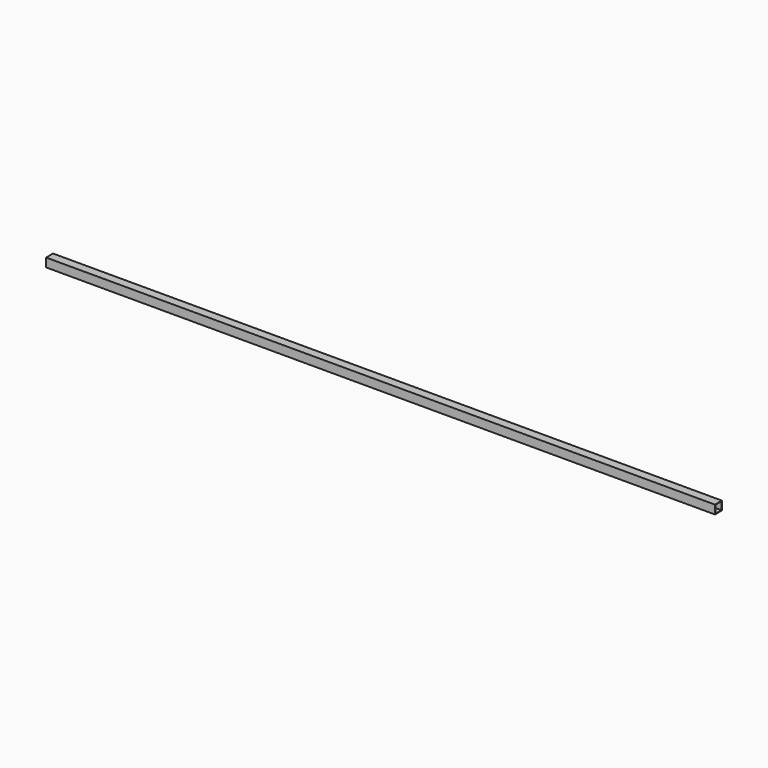
from build123d import *

# Parameters (mm, degrees)
F0_W     = 15.875
F0_H     = 15.875
F0_W_2   = 14.2748
F0_H_2   = 14.2748
F1_DEPTH = 609.6
F3_DEPTH = 5.08


with BuildPart() as f1:
    # F0 (on Right) → F1 (new body, symmetric)
    with BuildSketch(Plane.YZ):
        Rectangle(F0_W, F0_H)
        Rectangle(F0_W_2, F0_H_2, mode=Mode.SUBTRACT)
    extrude(amount=F1_DEPTH, both=True)

    # F2 (on face) → F3 (cut)
    with BuildSketch(Plane(origin=(0, 0, -7.9375), x_dir=(1, 0, 0), z_dir=(0, 0, -1))):
        with BuildLine():
            ThreePointArc((-53.975, -0.635), (-53.2310512242, -2.4310512242), (-51.435, -3.175))
            Line((-51.435, -3.175), (-12.065, -3.175))
            ThreePointArc((-12.065, -3.175), (-10.2689487758, -2.4310512242), (-9.525, -0.635))
            Line((-9.525, -0.635), (-9.525, 0.635))
            ThreePointArc((-9.525, 0.635), (-10.2689487758, 2.4310512242), (-12.065, 3.175))
            Line((-12.065, 3.175), (-51.435, 3.175))
            ThreePointArc((-51.435, 3.175), (-53.2310512242, 2.4310512242), (-53.975, 0.635))
            Line((-53.975, 0.635), (-53.975, -0.635))
        make_face()
        with BuildLine():
            ThreePointArc((53.975, 0.635), (53.2310512242, 2.4310512242), (51.435, 3.175))
            Line((51.435, 3.175), (12.065, 3.175))
            ThreePointArc((12.065, 3.175), (10.2689487758, 2.4310512242), (9.525, 0.635))
            Line((9.525, 0.635), (9.525, -0.635))
            ThreePointArc((9.525, -0.635), (10.2689487758, -2.4310512242), (12.065, -3.175))
            Line((12.065, -3.175), (51.435, -3.175))
            ThreePointArc((51.435, -3.175), (53.2310512242, -2.4310512242), (53.975, -0.635))
            Line((53.975, -0.635), (53.975, 0.635))
        make_face()
    extrude(amount=-F3_DEPTH, mode=Mode.SUBTRACT)


solid = f1.part
